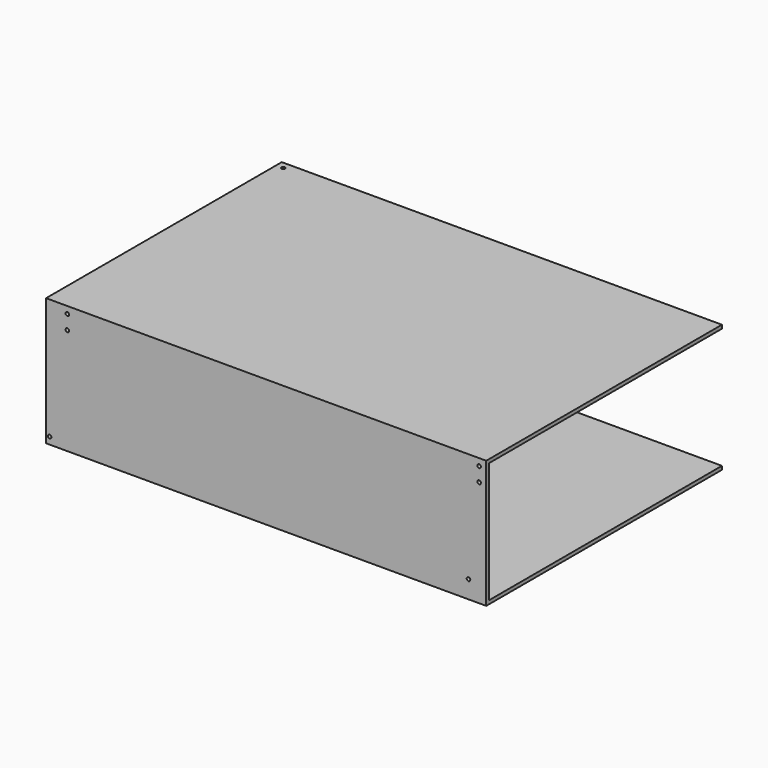
from build123d import *

# Parameters (mm, degrees)
F0_W      = 620
F0_H      = 415
F1_DEPTH  = 5
F2_W      = 620
F2_H      = 5
F3_DEPTH  = 175
F5_D      = 5
F7_D      = 5
F9_D      = 5
F11_D     = 5
F13_D     = 5
F15_D     = 5
F17_D     = 5
F19_D     = 5
F19_DEPTH = 11
F20_W     = 620
F20_H     = 5
F21_DEPTH = 410
F23_D     = 5


with BuildPart() as f1:
    # F0 (on Top) → F1 (new body)
    with BuildSketch(Plane.XY):
        Rectangle(F0_W, F0_H)
    extrude(amount=F1_DEPTH)

    # F2 (on face) → F3 (join)
    with BuildSketch(Plane.XY.offset(5)):
        with Locations((0, -205)):
            Rectangle(F2_W, F2_H)
    extrude(amount=F3_DEPTH)

    # F5 (through all)
    with Locations(Plane.XZ.offset(207.5)):
        with Locations((300, 170)):
            Hole(F5_D / 2)

    # F7 (through all)
    with Locations(Plane.XZ.offset(207.5)):
        with Locations((300, 150)):
            Hole(F7_D / 2)

    # F9 (through all)
    with Locations(Plane.XZ.offset(207.5)):
        with Locations((-280, 170)):
            Hole(F9_D / 2)

    # F11 (through all)
    with Locations(Plane.XZ.offset(207.5)):
        with Locations((-280, 150)):
            Hole(F11_D / 2)

    # F13 (through all)
    with Locations(Plane.XZ.offset(207.5)):
        with Locations((-305, 10)):
            Hole(F13_D / 2)

    # F15 (through all)
    with Locations(Plane(origin=(0, 0, 0), x_dir=(1, 0, 0), z_dir=(0, 0, -1))):
        with Locations((290, 195)):
            Hole(F15_D / 2)

    # F17 (through all)
    with Locations(Plane(origin=(0, 0, 0), x_dir=(1, 0, 0), z_dir=(0, 0, -1))):
        with Locations((-290, 195)):
            Hole(F17_D / 2)

    # F19
    with Locations(Plane.XZ.offset(207.5)):
        with Locations((285, 25)):
            Hole(F19_D / 2, depth=F19_DEPTH)

    # F20 (on face) → F21 (join)
    with BuildSketch(Plane(origin=(0, -202.5, 0), x_dir=(-1, 0, 0), z_dir=(0, 1, 0))):
        with Locations((0, 177.5)):
            Rectangle(F20_W, F20_H)
    extrude(amount=F21_DEPTH)

    # F23 (through all)
    with Locations(Plane.XY.offset(180)):
        with Locations((-300, 197.5)):
            Hole(F23_D / 2)


solid = f1.part
